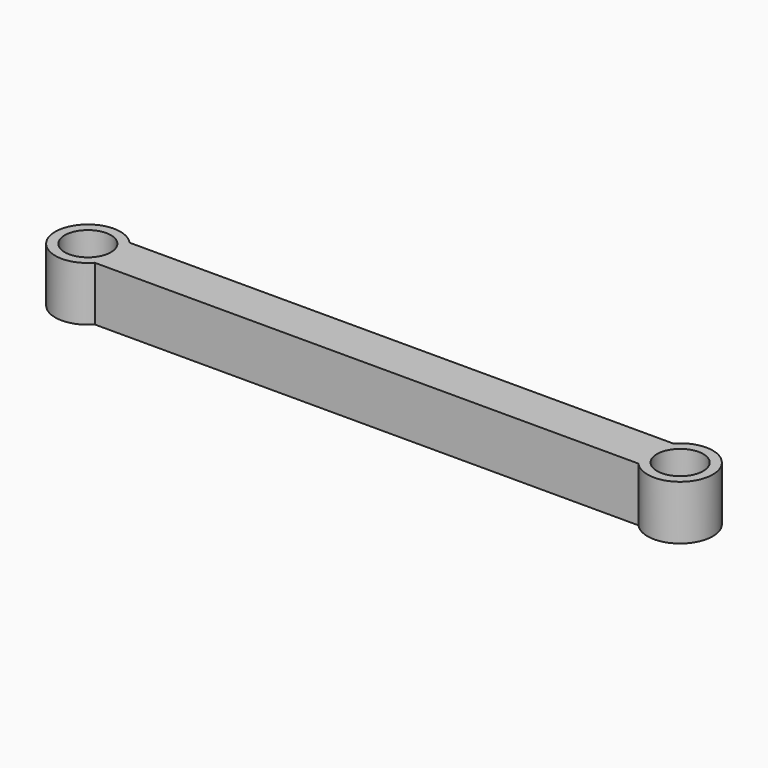
from build123d import *

# Parameters (mm, degrees)
F0_R     = 6
F1_DEPTH = 10
F2_R     = 4.25
F3_DEPTH = 10
F4_W     = 50
F4_H     = 8
F5_DEPTH = 10


with BuildPart() as f1:
    # F0 (on Top) → F1 (new body)
    with BuildSketch(Plane.XY):
        with Locations((-33.975307, 0)):
            Circle(F0_R)
    extrude(amount=F1_DEPTH)

    # F2 (on face) → F3 (cut)
    with BuildSketch(Plane.XY.offset(10)):
        with Locations((-33.975307, 0)):
            Circle(F2_R)
    extrude(amount=-F3_DEPTH, mode=Mode.SUBTRACT)

    # F4 (on face) → F5 (join)
    with BuildSketch(Plane(origin=(0, 0, 0), x_dir=(1, 0, 0), z_dir=(0, 0, -1))):
        with Locations((-4.503171, 0)):
            Rectangle(F4_W, F4_H)
    extrude(amount=-F5_DEPTH)

    # F6: F1 across face


with BuildPart() as f1_1:
    add(f1.part)
    add(f1.part.mirror(Plane(origin=(20.496829, 0, 5), x_dir=(0, 1, 0), z_dir=(1, 0, 0))))


solid = f1_1.part
